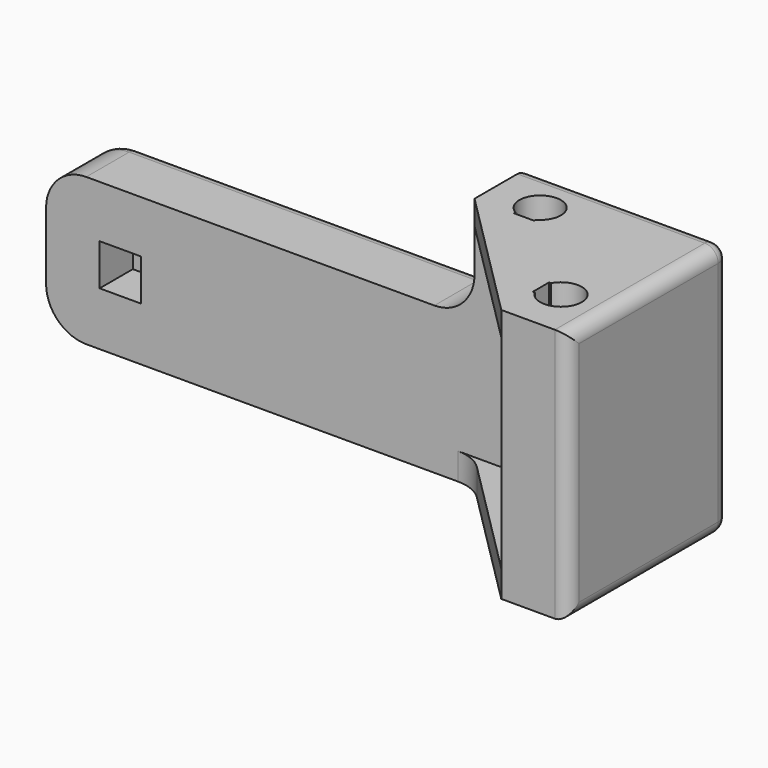
from build123d import *

# Parameters (mm, degrees)
PAD_DEPTH    = 17
PAD001_DEPTH = 2
PAD002_DEPTH = 1.8
SKETCH003_W  = 32
SKETCH003_H  = 11
PAD003_DEPTH = 5
SKETCH004_W  = 3.1
SKETCH004_H  = 3.1
POCKET_DEPTH = 3.1
FILLET_R     = 3
FILLET001_R  = 1


with BuildPart() as part:
    # Sketch → Pad (new body)
    with BuildSketch(Plane.XY):
        with BuildLine():
            Line((-10, 0), (-10, 5))
            Line((-10, 5), (5, 5))
            Line((5, 5), (5, -10))
            Line((5, -10), (0, -10))
            Line((0, -7.05), (0, -10))
            Line((0, -7.05), (0.143534, -7.05))
            ThreePointArc((0.143534, -7.05), (3.05, -6.3), (0.143534, -5.55))
            Line((0, -5.55), (0.143534, -5.55))
            Line((0, 0), (0, -5.55))
            Line((0, 0), (-5.55, 0))
            Line((-5.55, 0), (-5.55, 0.143534))
            ThreePointArc((-5.55, 0.143534), (-6.3, 3.05), (-7.05, 0.143534))
            Line((-7.05, 0), (-7.05, 0.143534))
            Line((-10, 0), (-7.05, 0))
        make_face()
    extrude(amount=-PAD_DEPTH)

    # Sketch001 (on Face16 of Pad) → Pad001 (join)
    with BuildSketch(Plane(origin=(0, 0, -17), x_dir=(1, 0, 0), z_dir=(0, 0, -1))):
        Polygon((5, -5), (-10, -5), (-10, 0), (0, 10), (5, 10), align=None)
    extrude(amount=PAD001_DEPTH)

    # Sketch002 (on Face1 of Pad001) → Pad002 (join)
    with BuildSketch(Plane.XY):
        Polygon((0, -10), (0, 0), (-10, 0), align=None)
    extrude(amount=-PAD002_DEPTH)

    # Sketch003 (on Face10 of Pad002) → Pad003 (join)
    with BuildSketch(Plane.XZ):
        with Locations((-26, -13.5)):
            Rectangle(SKETCH003_W, SKETCH003_H)
    extrude(amount=-PAD003_DEPTH)

    # Sketch004 (on Face22 of Pad003) → Pocket (cut)
    with BuildSketch(Plane.XZ):
        with Locations((-36.45, -13.45)):
            Rectangle(SKETCH004_W, SKETCH004_H)
    extrude(amount=-POCKET_DEPTH, mode=Mode.SUBTRACT)

    # Fillet
    fillet_edges = [part.edges().sort_by_distance(p)[0] for p in [
        (-10, 2.5, -8),
        (-42, 2.5, -8),
        (-42, 2.5, -19),
        (-10, 0, -18),
    ]]
    fillet(fillet_edges, radius=FILLET_R)

    # Fillet001
    fillet001_edges = [part.edges().sort_by_distance(p)[0] for p in [
        (-10, 5, -2.5),
        (-10.87868, 5, -7.12132),
        (-2.5, 5, 0),
        (-26, 5, -8),
        (5, 5, -9.5),
        (-41.12132, 5, -8.87868),
        (-17, 5, -19),
        (-42, 5, -13.5),
        (-41.12132, 5, -18.12132),
        (5, -2.5, 0),
        (5, -10, -9.5),
        (5, -2.5, -19),
        (0, 0, -9.4),
    ]]
    fillet(fillet001_edges, radius=FILLET001_R)


solid = part.part
